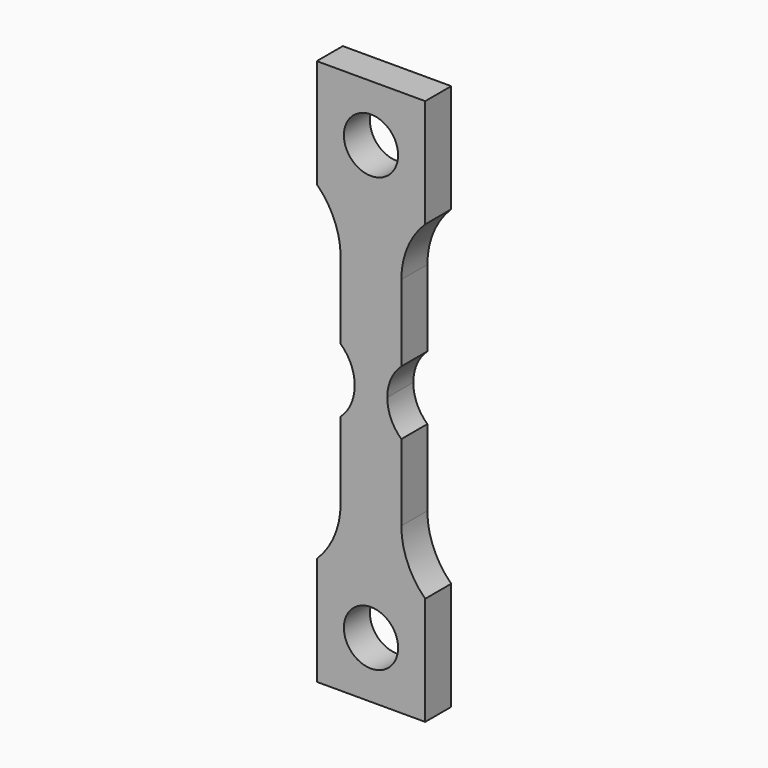
from build123d import *

# Parameters (mm, degrees)
F1_R     = 1.25
F2_DEPTH = 0.75


with BuildPart() as f2:
    # F1 (on Front) → F2 (new body, symmetric)
    with BuildSketch(Plane.XZ):
        with BuildLine():
            ThreePointArc((0.75, 0), (0.9196994782, 0.8062257748), (1.4, 1.4756354563))
            Line((1.4, 1.4756354563), (1.4, 5))
            ThreePointArc((1.4, 5), (1.6863063932, 6.4120021246), (2.5, 7.6009613607))
            Line((2.5, 7.6009613607), (2.5, 12.6009613607))
            Line((2.5, 12.6009613607), (0, 12.6009613607))
            Line((0, 12.6009613607), (-2.5, 12.6009613607))
            Line((-2.5, 12.6009613607), (-2.5, 7.6009613607))
            ThreePointArc((-2.5, 7.6009613607), (-1.6863063932, 6.4120021246), (-1.4, 5))
            Line((-1.4, 5), (-1.4, 1.4756354563))
            ThreePointArc((-1.4, 1.4756354563), (-0.9196994782, 0.8062257748), (-0.75, 0))
            ThreePointArc((-0.75, 0), (-0.9196994782, -0.8062257748), (-1.4, -1.4756354563))
            Line((-1.4, -1.4756354563), (-1.4, -5))
            ThreePointArc((-1.4, -5), (-1.6863063932, -6.4120021246), (-2.5, -7.6009613607))
            Line((-2.5, -7.6009613607), (-2.5, -12.6009613607))
            Line((-2.5, -12.6009613607), (0, -12.6009613607))
            Line((0, -12.6009613607), (2.5, -12.6009613607))
            Line((2.5, -12.6009613607), (2.5, -7.6009613607))
            ThreePointArc((2.5, -7.6009613607), (1.6863063932, -6.4120021246), (1.4, -5))
            Line((1.4, -5), (1.4, -1.4756354563))
            ThreePointArc((1.4, -1.4756354563), (0.9196994782, -0.8062257748), (0.75, 0))
        make_face()
        with Locations((0, -10)):
            Circle(F1_R, mode=Mode.SUBTRACT)
        with Locations((0, 10)):
            Circle(F1_R, mode=Mode.SUBTRACT)
    extrude(amount=F2_DEPTH, both=True)


solid = f2.part
